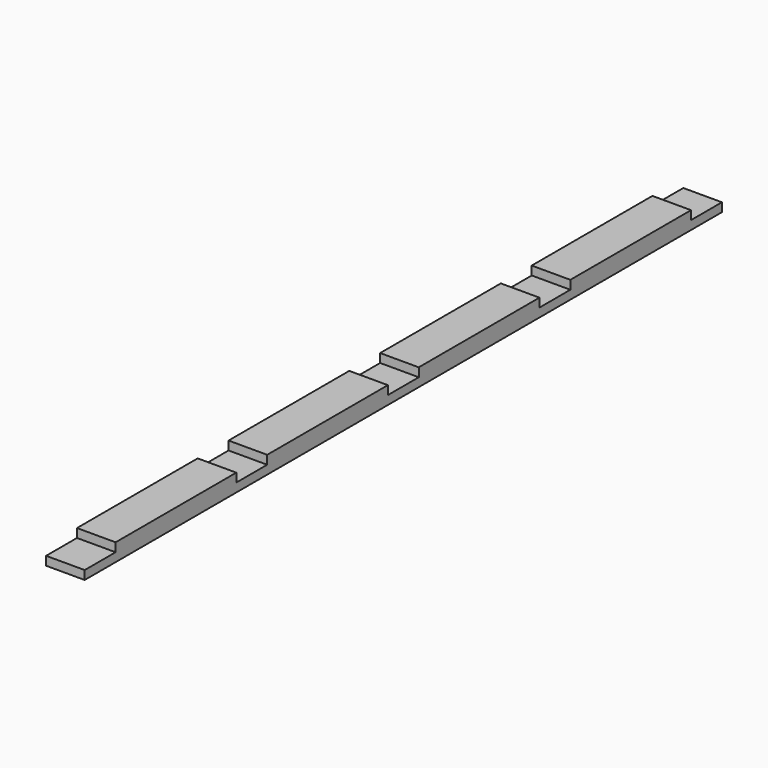
from build123d import *

# Parameters (mm, degrees)
F1_DEPTH = 32


with BuildPart() as f1:
    # F0 (on Right) → F1 (new body)
    with BuildSketch(Plane.YZ):
        Polygon((0, 7.25), (0, 0), (660, 0), (660, 7.25), (628, 7.25), (628, 14.5), (503, 14.5), (503, 7.25), (471, 7.25), (471, 14.5), (346, 14.5), (346, 7.25), (314, 7.25), (314, 14.5), (189, 14.5), (189, 7.25), (157, 7.25), (157, 14.5), (32, 14.5), (32, 7.25), align=None)
    extrude(amount=-F1_DEPTH)


solid = f1.part
